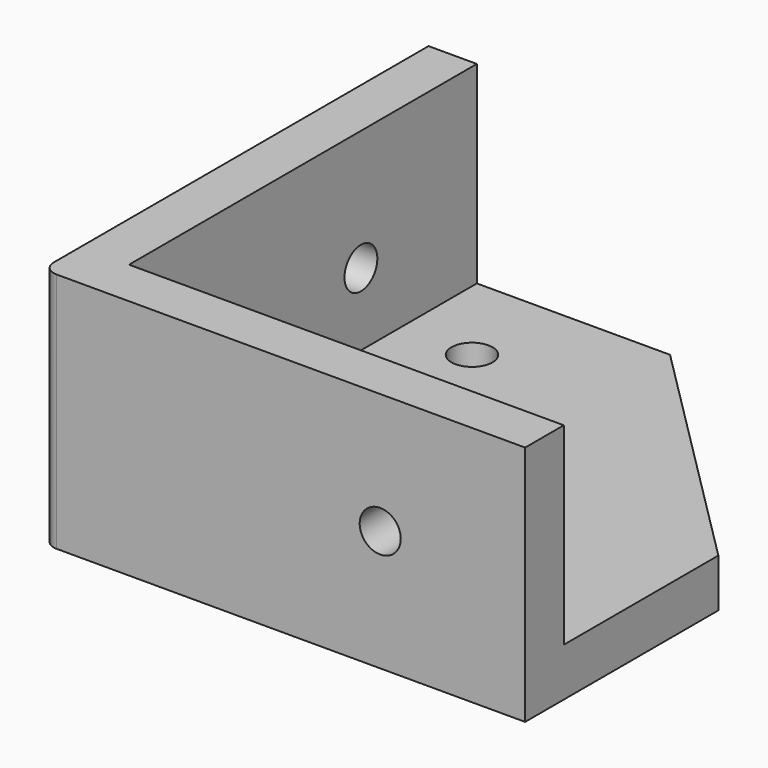
from build123d import *

# Parameters (mm, degrees)
F0_R      = 2.125
F1_DEPTH  = 5
F3_DEPTH  = 20
F4_R      = 2.125
F5_DEPTH  = 5
F7_DEPTH  = 5
F8_R      = 1.5
F9_R      = 2.125
F10_DEPTH = 25


with BuildPart() as f1:
    # F0 (on Top) → F1 (new body)
    with BuildSketch(Plane.XY):
        Polygon((0, 25), (0, 50), (-25, 50), (-25, 0), (25, 0), (25, 25), align=None)
        with Locations((-12.5, 12.5)):
            Circle(F0_R, mode=Mode.SUBTRACT)
        with Locations((15, 12.5)):
            Circle(F0_R, mode=Mode.SUBTRACT)
        with Locations((-12.5, 40)):
            Circle(F0_R, mode=Mode.SUBTRACT)
    extrude(amount=F1_DEPTH)

    # F2 (on face) → F3 (join)
    with BuildSketch(Plane.XY.offset(5)):
        Polygon((25, 5), (-20, 5), (-20, 50), (-25, 50), (-25, 0), (-20, 0), (25, 0), align=None)
    extrude(amount=F3_DEPTH)

    # F4 (on face) → F5 (cut)
    with BuildSketch(Plane.XZ):
        with Locations((10, 12.5)):
            Circle(F4_R)
    extrude(amount=-F5_DEPTH, mode=Mode.SUBTRACT)

    # F6 (on Top) → F7 (join)
    with BuildSketch(Plane.XY):
        Polygon((25, 25), (0, 50), (0, 25), align=None)
    extrude(amount=F7_DEPTH)

    # F8
    f8_edges = [f1.edges().sort_by_distance(p)[0] for p in [
        (-25, 0, 12.5),
    ]]
    fillet(f8_edges, radius=F8_R)

    # F9 (on face) → F10 (cut)
    with BuildSketch(Plane(origin=(-25, 0, 0), x_dir=(0, -1, 0), z_dir=(-1, 0, 0))):
        with Locations((-35, 12.5)):
            Circle(F9_R)
    extrude(amount=-F10_DEPTH, mode=Mode.SUBTRACT)


solid = f1.part
